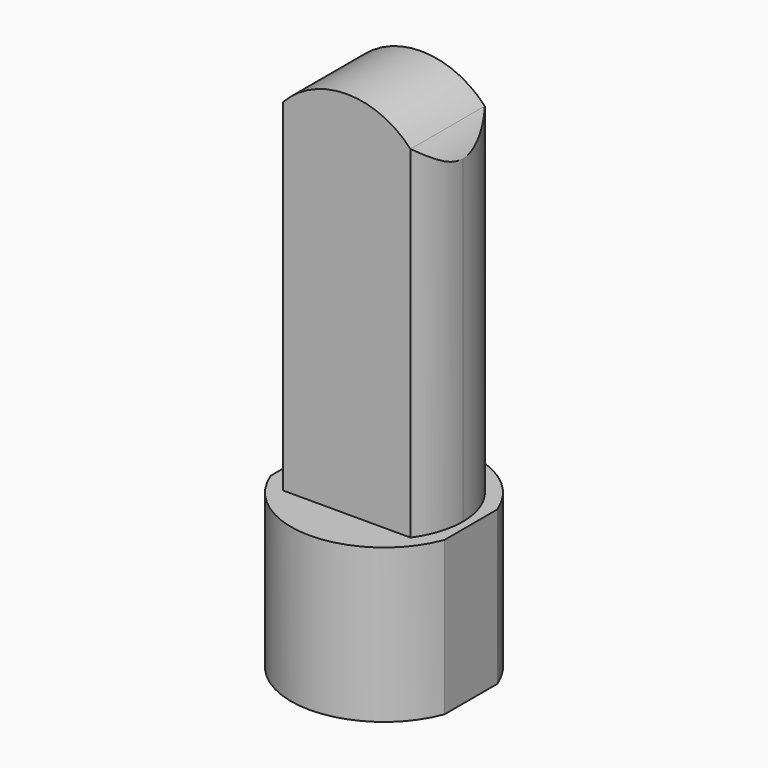
from build123d import *

# Parameters (mm, degrees)
F1_DEPTH = 38
F2_R     = 20.15
F3_DEPTH = 26
F5_DEPTH = 93
F7_DEPTH = 25


with BuildPart() as f1:
    # F0 (on Top) → F1 (new body)
    with BuildSketch(Plane.XY):
        with BuildLine():
            Line((21.5, -8.1700673192), (21.5, 8.1700673192))
            ThreePointArc((21.5, 8.1700673192), (0, 23), (-21.5, 8.1700673192))
            Line((-21.5, 8.1700673192), (-21.5, -8.1700673192))
            ThreePointArc((-21.5, -8.1700673192), (0, -23), (21.5, -8.1700673192))
        make_face()
    extrude(amount=F1_DEPTH)

    # F2 (on face) → F3 (cut)
    with BuildSketch(Plane(origin=(0, 0, 0), x_dir=(1, 0, 0), z_dir=(0, 0, -1))):
        Circle(F2_R)
    extrude(amount=-F3_DEPTH, mode=Mode.SUBTRACT)

    # F4 (on face) → F5 (join)
    with BuildSketch(Plane.XY.offset(38)):
        with BuildLine():
            ThreePointArc((15.748015748, -11.5), (18.5382888515, -6.0482928547), (19.5, 0))
            ThreePointArc((19.5, 0), (18.5382888515, 6.0482928547), (15.748015748, 11.5))
            Line((15.748015748, 11.5), (-15.748015748, 11.5))
            ThreePointArc((-15.748015748, 11.5), (-19.5, 0), (-15.748015748, -11.5))
            Line((-15.748015748, -11.5), (15.748015748, -11.5))
        make_face()
    extrude(amount=F5_DEPTH)

    # F6 (on face) → F7 (cut)
    with BuildSketch(Plane.XZ.offset(11.5)):
        with BuildLine():
            ThreePointArc((15.748015748, 122.6372811683), (19.0072596497, 118.0485860005), (20.9639030843, 112.7712438075))
            Line((20.9639030843, 112.7712438075), (30.4333064705, 134.2586576939))
            Line((30.4333064705, 134.2586576939), (-34.2159792781, 134.2586576939))
            Line((-34.2159792781, 134.2586576939), (-20.6739319013, 113.9024181266))
            ThreePointArc((-20.6739319013, 113.9024181266), (-18.7273603514, 118.5610593346), (-15.748015748, 122.6372811683))
            Line((-15.748015748, 122.6372811683), (-15.748015748, 131))
            Line((-15.748015748, 131), (15.748015748, 131))
            Line((15.748015748, 131), (15.748015748, 122.6372811683))
        make_face()
        with BuildLine():
            ThreePointArc((-15.748015748, 122.6372811683), (0, 129.5), (15.748015748, 122.6372811683))
            Line((15.748015748, 122.6372811683), (15.748015748, 131))
            Line((15.748015748, 131), (-15.748015748, 131))
            Line((-15.748015748, 131), (-15.748015748, 122.6372811683))
        make_face()
    extrude(amount=-F7_DEPTH, mode=Mode.SUBTRACT)


solid = f1.part
